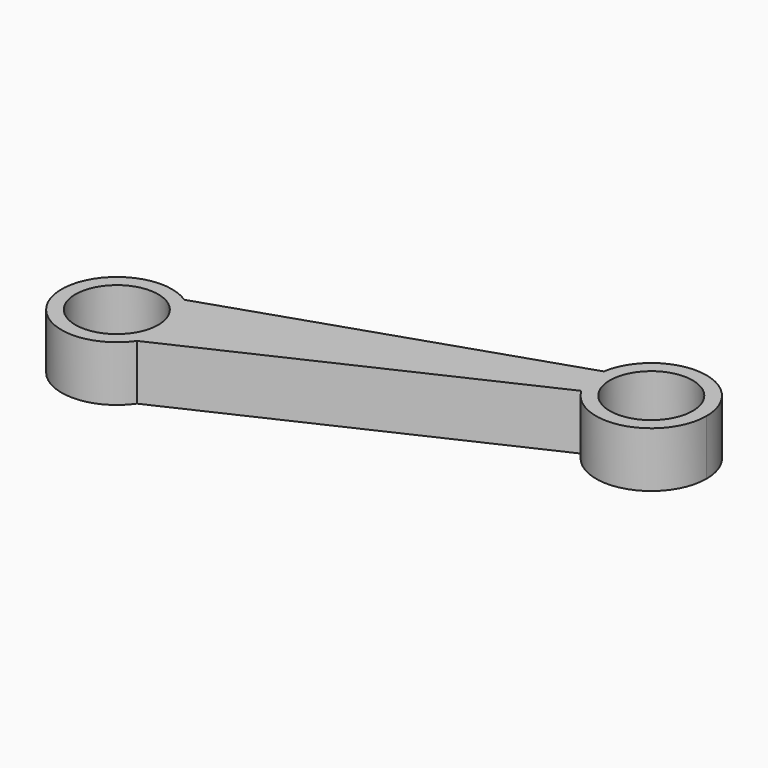
from build123d import *

# Parameters (mm, degrees)
F1_DEPTH = 12.7
F3_D     = 19.05


with BuildPart() as f1:
    # F0 (on Top) → F1 (new body)
    with BuildSketch(Plane.XY):
        with BuildLine():
            ThreePointArc((-41.224553, 13.086214), (-39.543115, 16.529238), (-38.965097, 20.317053))
            ThreePointArc((-38.965097, 20.317053), (-40.460249, 26.295463), (-44.593661, 30.866214))
            ThreePointArc((-44.593661, 30.866214), (-64.143057, 17.952622), (-41.224553, 13.086214))
        make_face()
        with BuildLine():
            ThreePointArc((-44.593661, 30.866214), (-40.460249, 26.295463), (-38.965097, 20.317053))
            ThreePointArc((-38.965097, 20.317053), (-39.543115, 16.529238), (-41.224553, 13.086214))
            Line((-41.224553, 13.086214), (33.170466, 47.735668))
            ThreePointArc((33.170466, 47.735668), (31.656753, 51.811239), (31.606339, 56.158545))
            Line((31.606339, 56.158545), (-44.593661, 30.866214))
        make_face()
        with BuildLine():
            ThreePointArc((56.843282, 54.129986), (45.160833, 66.789156), (31.606339, 56.158545))
            ThreePointArc((31.606339, 56.158545), (31.656753, 51.811239), (33.170466, 47.735668))
            ThreePointArc((33.170466, 47.735668), (47.455021, 41.869383), (56.843282, 54.129986))
        make_face()
    extrude(amount=F1_DEPTH)

    # F3 (through all)
    with Locations(Plane.XY.offset(12.7)):
        with Locations((-51.665097, 20.317053), (44.143282, 54.129986)):
            Hole(F3_D / 2)


solid = f1.part
